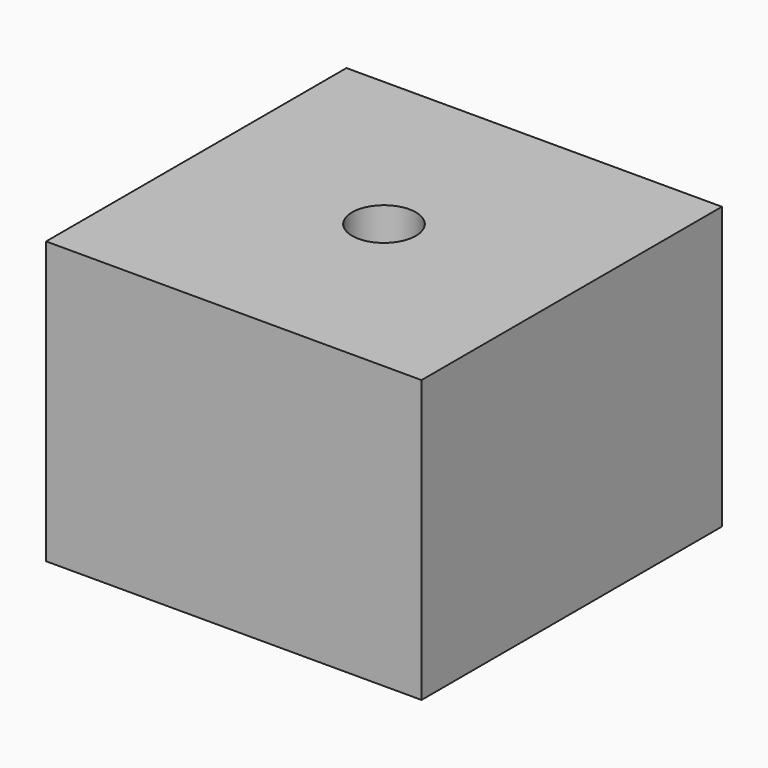
from build123d import *

# Parameters (mm, degrees)
CYLINDER053_R               = 1.7
CYLINDER053_DEPTH           = 80
CYLINDER053_PITCH_ANGLE     = 90
BOX014_W                    = 15
BOX014_H                    = 20
BOX014_DEPTH                = 20
CUT010035003036_PITCH_ANGLE = 90


with BuildPart() as taladro_tornillo013:
    # Cylinder053 → Cylinder053 (new body)
    with BuildSketch(Plane.XY):
        Circle(CYLINDER053_R)
    extrude(amount=CYLINDER053_DEPTH)


with BuildPart() as taladro_tornillo013_1:
    # Cylinder053 pitch: moved
    add(taladro_tornillo013.part.rotate(Axis((0, 0, 0), (0, 1, 0)), CYLINDER053_PITCH_ANGLE))


with BuildPart() as taladro_tornillo013_2:
    # Cylinder053 placement: moved
    add(taladro_tornillo013_1.part.moved(Location((-20, 10, 10))))


with BuildPart() as cut010035003036:
    # Box014 → Box014 (new body)
    with BuildSketch(Plane.XY):
        with Locations((7.5, 10)):
            Rectangle(BOX014_W, BOX014_H)
    extrude(amount=BOX014_DEPTH)

    # Cut010035003036: cut Taladro tornillo013
    add(taladro_tornillo013_2.part, mode=Mode.SUBTRACT)


with BuildPart() as cut010035003036_1:
    # Cut010035003036 pitch: moved
    add(cut010035003036.part.rotate(Axis((0, 0, 0), (0, 1, 0)), CUT010035003036_PITCH_ANGLE))


with BuildPart() as cut010035003036_2:
    # Cut010035003036 placement: moved
    add(cut010035003036_1.part.moved(Location((91, 91, 133))))


solid = cut010035003036_2.part
